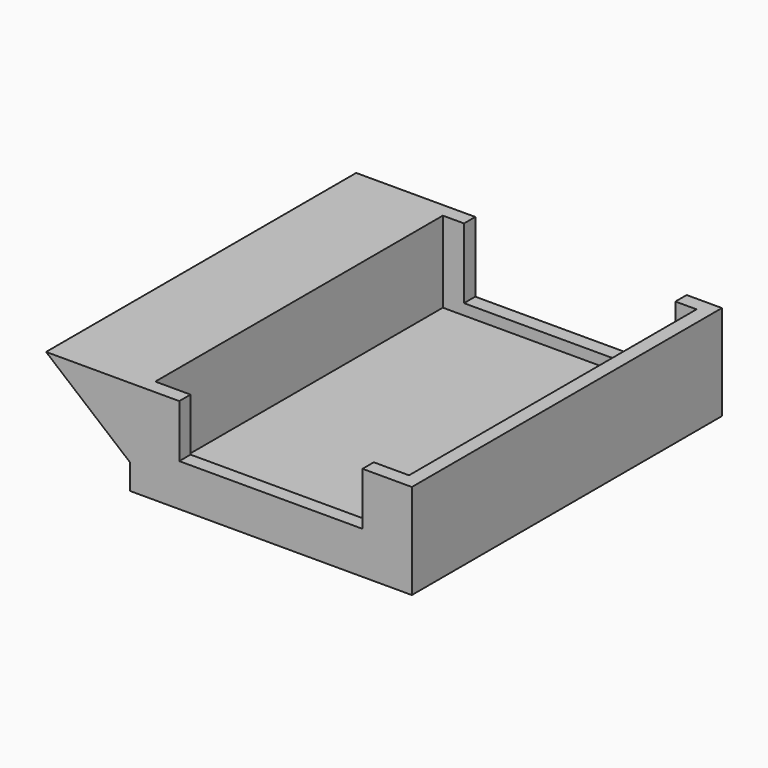
from build123d import *

# Parameters (mm, degrees)
SKETCH_W        = 40
SKETCH_H        = 55
PAD_DEPTH       = 13.5
SKETCH001_W     = 36
SKETCH001_H     = 51
POCKET_DEPTH    = 11.5
SKETCH002_W     = 26
SKETCH002_H     = 7.5
POCKET001_DEPTH = 2
SKETCH003_W     = 30
SKETCH003_H     = 9.959645
POCKET002_DEPTH = 2
PAD001_DEPTH    = 55


with BuildPart() as part:
    # Sketch → Pad (new body)
    with BuildSketch(Plane.XY):
        Rectangle(SKETCH_W, SKETCH_H)
    extrude(amount=PAD_DEPTH)

    # Sketch001 (on Face6 of Pad) → Pocket (cut)
    with BuildSketch(Plane.XY.offset(13.5)):
        Rectangle(SKETCH001_W, SKETCH001_H)
    extrude(amount=-POCKET_DEPTH, mode=Mode.SUBTRACT)

    # Sketch002 (on Face6 of Pocket) → Pocket001 (cut)
    with BuildSketch(Plane.XZ.offset(27.5)):
        with Locations((0, 9.75)):
            Rectangle(SKETCH002_W, SKETCH002_H)
    extrude(amount=-POCKET001_DEPTH, mode=Mode.SUBTRACT)

    # Sketch003 (on Face1 of Pocket001) → Pocket002 (cut)
    with BuildSketch(Plane(origin=(0, 27.5, 0), x_dir=(-1, 0, 0), z_dir=(0, 1, 0))):
        with Locations((0, 8.5201775)):
            Rectangle(SKETCH003_W, SKETCH003_H)
    extrude(amount=-POCKET002_DEPTH, mode=Mode.SUBTRACT)

    # Sketch004 (on Face1 of Pocket002) → Pad001 (join)
    with BuildSketch(Plane(origin=(0, 27.5, 0), x_dir=(-1, 0, 0), z_dir=(0, 1, 0))):
        Polygon((19.9, 13.5), (19.9, 3.5), (31.9, 13.5), align=None)
    extrude(amount=-PAD001_DEPTH)


solid = part.part
